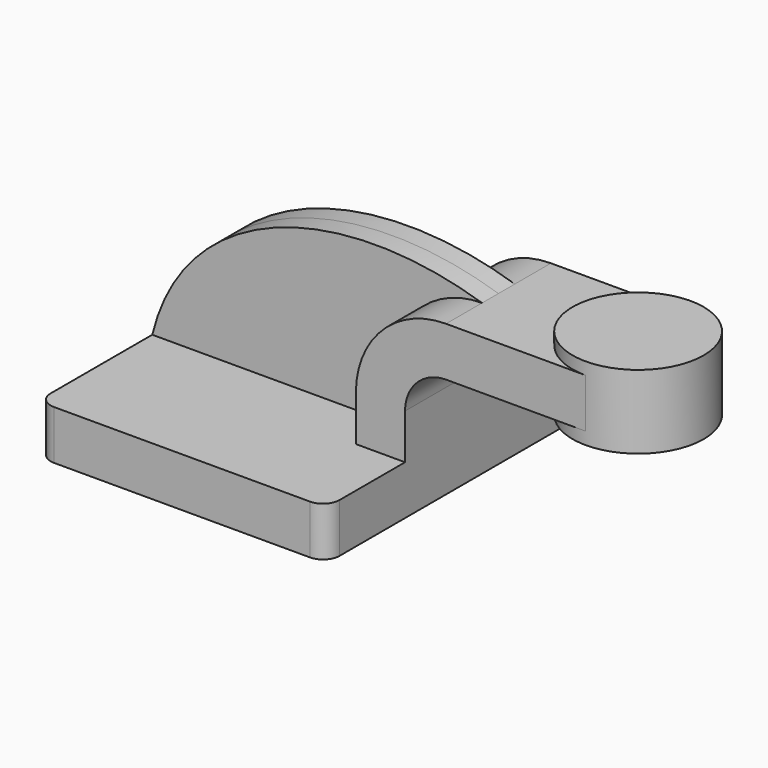
from build123d import *

# Parameters (mm, degrees)
F1_DEPTH = 63.5
F0_W     = 25.3651374038
F0_H     = 19.05
F2_DEPTH = 25.4
F3_DEPTH = 7.9375
F0_W_2   = 25.4
F0_H_2   = 28.575
F5_R     = 6.35


with BuildPart() as f1:
    # F0 (on Front) → F1 (new body, symmetric)
    with BuildSketch(Plane.XZ):
        Polygon((36.9096121311, 9.525), (-55.9596121311, 9.525), (-55.9596121311, -9.525), (55.9596121311, -9.525), (55.9596121311, 9.525), align=None)
    extrude(amount=F1_DEPTH, both=True)

    # F0 (on Front) → F2 (join, symmetric)
    with BuildSketch(Plane.XZ):
        with BuildLine():
            Line((36.9096121311, 27.0002), (36.9096121311, 9.525))
            Line((36.9096121311, 9.525), (55.9596121311, 9.525))
            Line((55.9596121311, 9.525), (55.9596121311, 27.0002))
            ThreePointArc((55.9596121311, 27.0002), (60.6092919798, 38.2255201513), (71.8346121311, 42.8752))
            Line((71.8346121311, 42.8752), (100.552007556, 42.8752))
            Line((100.552007556, 42.8752), (100.552007556, 61.9252))
            Line((100.552007556, 61.9252), (71.8346121311, 61.9252))
            ThreePointArc((71.8346121311, 61.9252), (47.1389077982, 51.6959043329), (36.9096121311, 27.0002))
        make_face()
        with Locations((113.2345762579, 52.4002)):
            Rectangle(F0_W, F0_H)
    extrude(amount=F2_DEPTH, both=True)

    # F0 (on Front) → F3 (join, symmetric)
    with BuildSketch(Plane.XZ):
        with BuildLine():
            add(Edge.make_bspline(
                [(-55.9596121311, 9.525), (-43.233461678, 61.7118962109), (17.0044116676, 79.1671946645), (71.8346121311, 61.9252)],
                knots=[0, 0, 0, 0, 138.1200373401, 138.1200373401, 138.1200373401, 138.1200373401], degree=3))
            Line((-55.9596121311, 9.525), (36.9096121311, 9.525))
            Line((36.9096121311, 9.525), (36.9096121311, 27.0002))
            ThreePointArc((36.9096121311, 27.0002), (47.1389077982, 51.6959043329), (71.8346121311, 61.9252))
        make_face()
    extrude(amount=F3_DEPTH, both=True)

    # F0 (on Front) → F4 (revolve)
    with BuildSketch(Plane.XZ):
        with Locations((138.652007556, 52.3875)):
            Rectangle(F0_W_2, F0_H_2)
    revolve(axis=Axis((125.952007556, 0, 52.3875), (0, 0, -1)))

    # F5
    f5_edges = [f1.edges().sort_by_distance(p)[0] for p in [
        (-55.959612, -63.5, 0),
        (55.959612, -63.5, 0),
        (55.959612, 63.5, 0),
        (-55.959612, 63.5, 0),
    ]]
    fillet(f5_edges, radius=F5_R)


solid = f1.part
